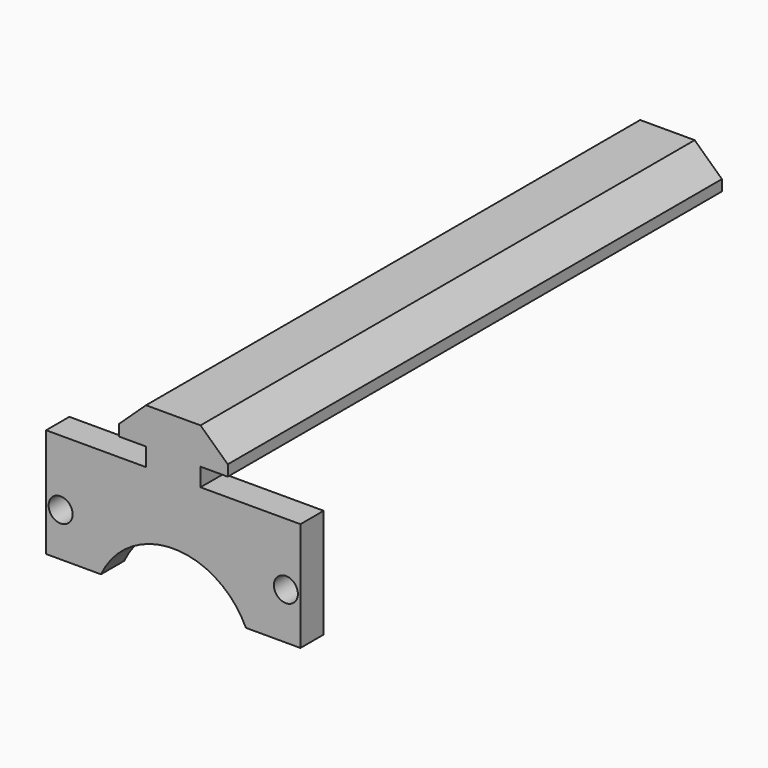
from build123d import *

# Parameters (mm, degrees)
F1_DEPTH = 85
F2_W     = 35
F2_H     = 15
F3_DEPTH = 4
F5_D     = 3.3
F5_DEPTH = 30
F5_TIP   = 0.9914200214
F7_D     = 22
F7_DEPTH = 30
F7_TIP   = 6.6094668093


with BuildPart() as f1:
    # F0 (on Front) → F1 (new body)
    with BuildSketch(Plane.XZ):
        Polygon((-3.7746716016, 2.5), (-3.7746716016, 0), (3.7253283984, 0), (3.7253283984, 2.5), (7.4753283984, 2.5), (7.4753283984, 4), (3.7253283984, 7.5), (-3.7746716016, 7.5), (-7.5246716016, 4), (-7.5246716016, 2.5), align=None)
    extrude(amount=F1_DEPTH)

    # F2 (on face) → F3 (join)
    with BuildSketch(Plane.XZ.offset(85)):
        with Locations((-0.0246716016, -7.5)):
            Rectangle(F2_W, F2_H)
    extrude(amount=-F3_DEPTH)

    # F5
    with Locations(Plane.XZ.offset(85)):
        with Locations((-15.5246716016, -9), (15.4753283984, -8.5702965236)):
            Hole(F5_D / 2, depth=F5_DEPTH)
            with Locations((0, 0, -(F5_DEPTH + F5_TIP / 2))):  # 118° drill point
                Cone(0, F5_D / 2, F5_TIP, mode=Mode.SUBTRACT)

    # F7
    with Locations(Plane.XZ.offset(85)):
        with Locations((0, -19.6417048573)):
            Hole(F7_D / 2, depth=F7_DEPTH)
            with Locations((0, 0, -(F7_DEPTH + F7_TIP / 2))):  # 118° drill point
                Cone(0, F7_D / 2, F7_TIP, mode=Mode.SUBTRACT)


solid = f1.part
